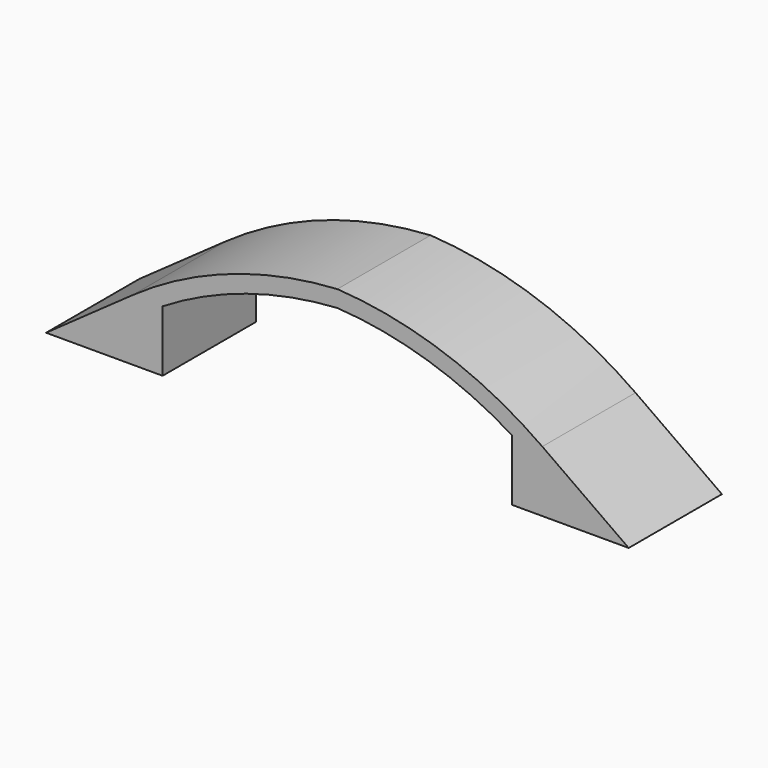
from build123d import *

# Parameters (mm, degrees)
F1_DEPTH = 22.225


with BuildPart() as f1:
    # F0 (on Front) → F1 (new body)
    with BuildSketch(Plane.XZ):
        with BuildLine():
            Line((-39.084297, 11.671778), (-55.5625, 0))
            Line((-55.5625, 0), (-33.3375, 0))
            Line((-33.3375, 0), (-33.3375, 11.671778))
            ThreePointArc((-33.3375, 11.671778), (-17.317547, 18.99793), (0, 22.225))
            ThreePointArc((0, 22.225), (17.317547, 18.99793), (33.3375, 11.671778))
            Line((33.3375, 11.671778), (33.3375, 0))
            Line((33.3375, 0), (55.5625, 0))
            Line((55.5625, 0), (39.084297, 11.671778))
            ThreePointArc((39.084297, 11.671778), (20.504205, 21.274866), (0, 25.4))
            ThreePointArc((0, 25.4), (-20.504205, 21.274866), (-39.084297, 11.671778))
        make_face()
    extrude(amount=F1_DEPTH)


solid = f1.part
